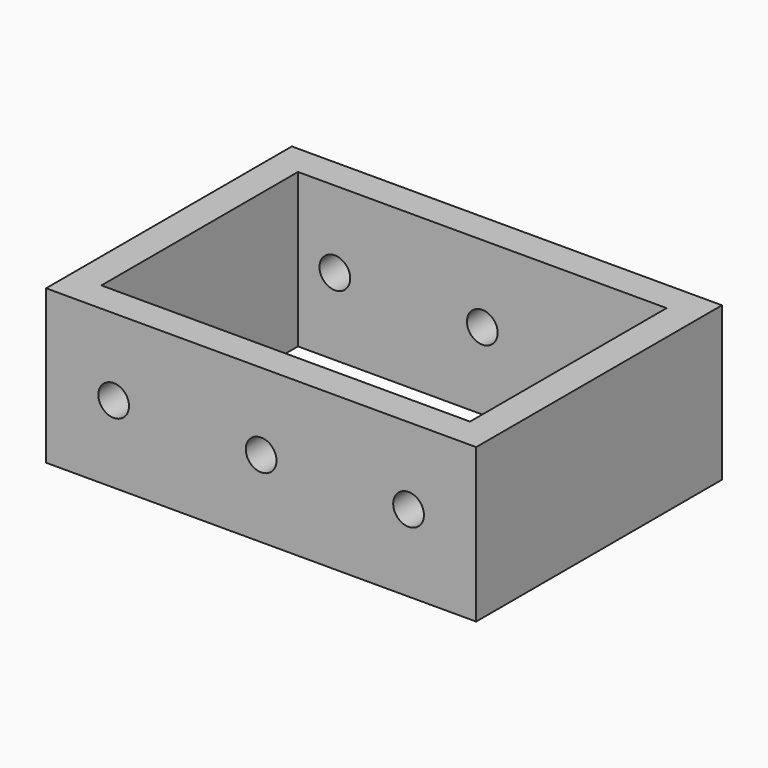
from build123d import *

# Parameters (mm, degrees)
F0_W     = 70
F0_H     = 50
F0_W_2   = 60
F0_H_2   = 40
F1_DEPTH = 12.5
F2_R     = 2.5
F3_DEPTH = 50.001


with BuildPart() as f1:
    # F0 (on Top) → F1 (new body, symmetric)
    with BuildSketch(Plane.XY):
        Rectangle(F0_W, F0_H)
        Rectangle(F0_W_2, F0_H_2, mode=Mode.SUBTRACT)
    extrude(amount=F1_DEPTH, both=True)

    # F2 (on face) → F3 (cut, through all)
    with BuildSketch(Plane.XZ.offset(25)):
        with Locations((-24, 0)):
            Circle(F2_R)
        Circle(F2_R)
        with Locations((24, 0)):
            Circle(F2_R)
    extrude(amount=-F3_DEPTH, mode=Mode.SUBTRACT)


solid = f1.part
